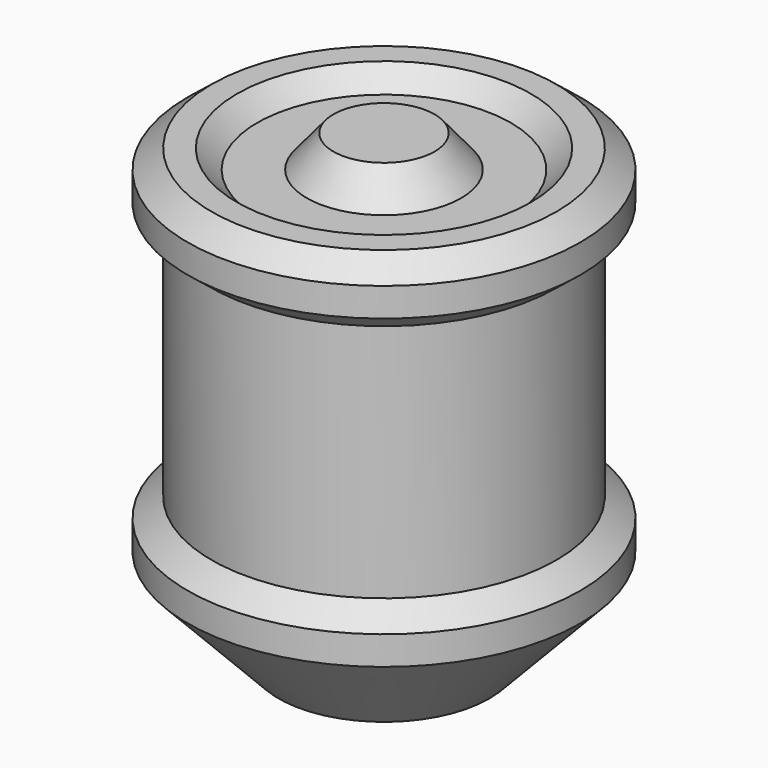
from build123d import *

# Parameters (mm, degrees)
F2_R     = 2.75
F3_DEPTH = 2.5


with BuildPart() as f1:
    # F0 (on Front) → F1 (revolve)
    with BuildSketch(Plane.XZ):
        Polygon((0, 23.5), (0, 0), (5.5, 0), (10.25, 5), (10.25, 6.5), (9, 7.5), (9, 20), (10.25, 21), (10.25, 22.5), (9, 23.5), (7.670461, 23.5), (6.616828, 22.510535), (4.029138, 22.510535), (2.637273, 24.193292), (0, 24.193292), align=None)
    revolve(axis=Axis((0, 0, 11.75), (0, 0, -1)))

    # F2 (on face) → F3 (cut)
    with BuildSketch(Plane(origin=(0, 0, 0), x_dir=(1, 0, 0), z_dir=(0, 0, -1))):
        Circle(F2_R)
    extrude(amount=-F3_DEPTH, mode=Mode.SUBTRACT)


solid = f1.part
